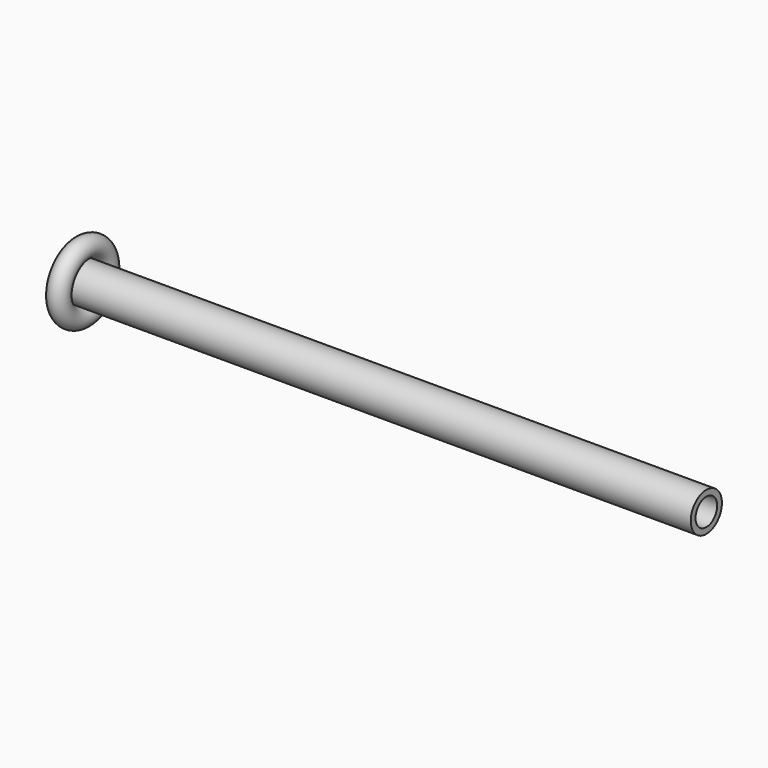
from build123d import *

# Parameters (mm, degrees)
F0_R     = 0.79375
F0_R_2   = 0.548878
F1_DEPTH = 25.4
F2_R     = 0.405126


with BuildPart() as f1:
    # F0 (on Right) → F1 (new body)
    with BuildSketch(Plane.YZ):
        Circle(F0_R)
        Circle(F0_R_2, mode=Mode.SUBTRACT)
    extrude(amount=F1_DEPTH)


with BuildPart() as f3:
    # F2 (on Front) → F3 (revolve)
    with BuildSketch(Plane.XZ):
        with Locations((0, -1.217112)):
            Circle(F2_R)
    revolve(axis=Axis((12.708355, 0, 0), (1, 0, 0)))


solid = Compound([f1.part, f3.part])
